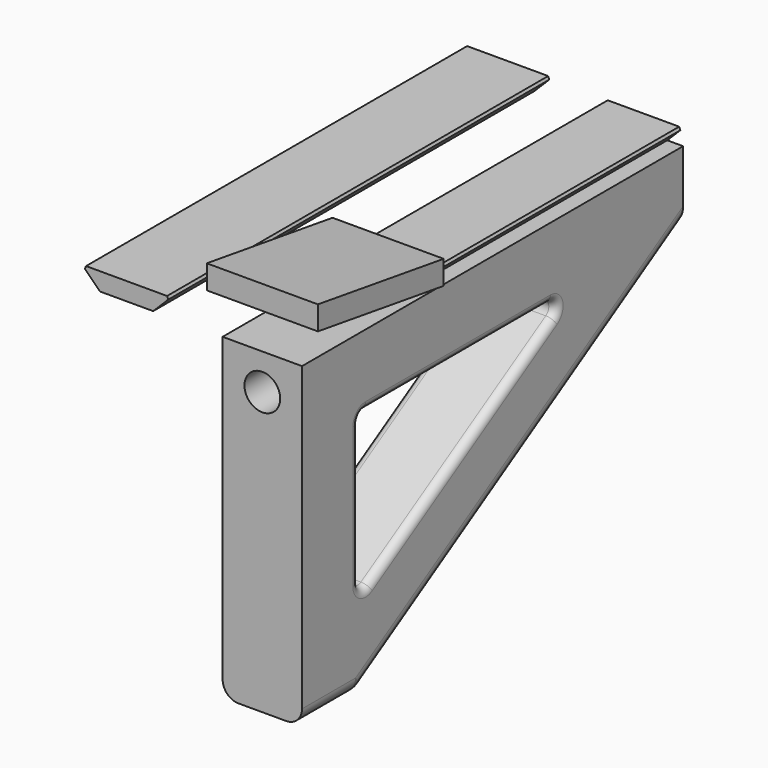
from build123d import *

# Parameters (mm, degrees)
PAD_DEPTH       = 10
SKETCH001_R     = 2.25
POCKET_DEPTH    = 60.001
SKETCH004_R     = 3.5
POCKET002_DEPTH = 4
POCKET001_DEPTH = 10.001
PAD001_DEPTH    = 40
CHAMFER_SIZE    = 0.5
FILLET_R        = 1
FILLET001_R     = 2
SKETCH006_W     = 14
SKETCH006_H     = 3
SKETCH005_W     = 14
SKETCH005_H     = 3
PAD002_DEPTH    = 60
CHAMFER001_SIZE = 0.5


with BuildPart() as mount:
    # Sketch → Pad (new body)
    with BuildSketch(Plane.YZ):
        Polygon((0, 0), (60, 0), (60, -9), (9, -40), (0, -40), align=None)
    extrude(amount=PAD_DEPTH)

    # Sketch001 → Pocket (cut, through all)
    with BuildSketch(Plane.XZ):
        with Locations((5, -4.5)):
            Circle(SKETCH001_R)
    extrude(amount=-POCKET_DEPTH, mode=Mode.SUBTRACT)

    # Sketch004 → Pocket002 (cut)
    with BuildSketch(Plane(origin=(0, 60, 0), x_dir=(-1, 0, 0), z_dir=(0, 1, 0))):
        with Locations((-5, -4.5)):
            Circle(SKETCH004_R)
    extrude(amount=-POCKET002_DEPTH, mode=Mode.SUBTRACT)

    # Sketch002 → Pocket001 (cut, through all)
    with BuildSketch(Plane(origin=(0, 0, 0), x_dir=(0, -1, 0), z_dir=(-1, 0, 0))):
        Polygon((-42.672825, -9), (-9, -9), (-9, -29.467795), align=None)
    extrude(amount=-POCKET001_DEPTH, mode=Mode.SUBTRACT)

    # Sketch003 → Pad001 (join)
    with BuildSketch(Plane(origin=(0, 20, 0), x_dir=(-1, 0, 0), z_dir=(0, 1, 0))):
        Polygon((-8, 0), (-10, 2), (0, 2), (-2, 0), align=None)
    extrude(amount=PAD001_DEPTH)

    # Chamfer
    chamfer_edges = [mount.edges().sort_by_distance(p)[0] for p in [
        (0, 40, 2),
        (10, 40, 2),
    ]]
    chamfer(chamfer_edges, length=CHAMFER_SIZE)

    # Fillet
    fillet_edges = [mount.edges().sort_by_distance(p)[0] for p in [
        (0, 25.836412, -9),
        (5, 9, -9),
        (10, 25.836412, -9),
        (5, 42.672825, -9),
        (0, 9, -19.233898),
        (5, 9, -29.467795),
        (10, 9, -19.233898),
        (0, 25.836412, -19.233898),
        (10, 25.836412, -19.233898),
    ]]
    fillet(fillet_edges, radius=FILLET_R)

    # Fillet001
    fillet001_edges = [mount.edges().sort_by_distance(p)[0] for p in [
        (10, 34.5, -24.5),
        (0, 34.5, -24.5),
        (10, 4.5, -40),
        (0, 4.5, -40),
        (5, 9, -40),
    ]]
    fillet(fillet001_edges, radius=FILLET001_R)


with BuildPart() as dovetail_support:
    # Sketch006 → AdditiveLoft section 0
    with BuildSketch(Plane(origin=(0, 19.8, 0), x_dir=(-1, 0, 0), z_dir=(0, 1, 0))):
        with Locations((-5, 3)):
            Rectangle(SKETCH006_W, SKETCH006_H)
    # Sketch005 → AdditiveLoft section 1
    with BuildSketch(Plane(origin=(0, 0, 0), x_dir=(-1, 0, 0), z_dir=(0, 1, 0))):
        with Locations((-5, 6)):
            Rectangle(SKETCH005_W, SKETCH005_H)
    loft()


with BuildPart() as dovetail_slot_mask:
    # Sketch007 → Pad002 (new body)
    with BuildSketch(Plane(origin=(0, 0, 0), x_dir=(-1, 0, 0), z_dir=(0, 1, 0))):
        Polygon((6.497558, 2.25), (17.704665, 2.25), (15.454665, 0), (8.747558, 0), align=None)
    extrude(amount=PAD002_DEPTH)

    # Chamfer001
    chamfer001_edges = [dovetail_slot_mask.edges().sort_by_distance(p)[0] for p in [
        (-17.704665, 30, 2.25),
        (-6.497558, 30, 2.25),
    ]]
    chamfer(chamfer001_edges, length=CHAMFER001_SIZE)


solid = Compound([mount.part, dovetail_support.part, dovetail_slot_mask.part])
